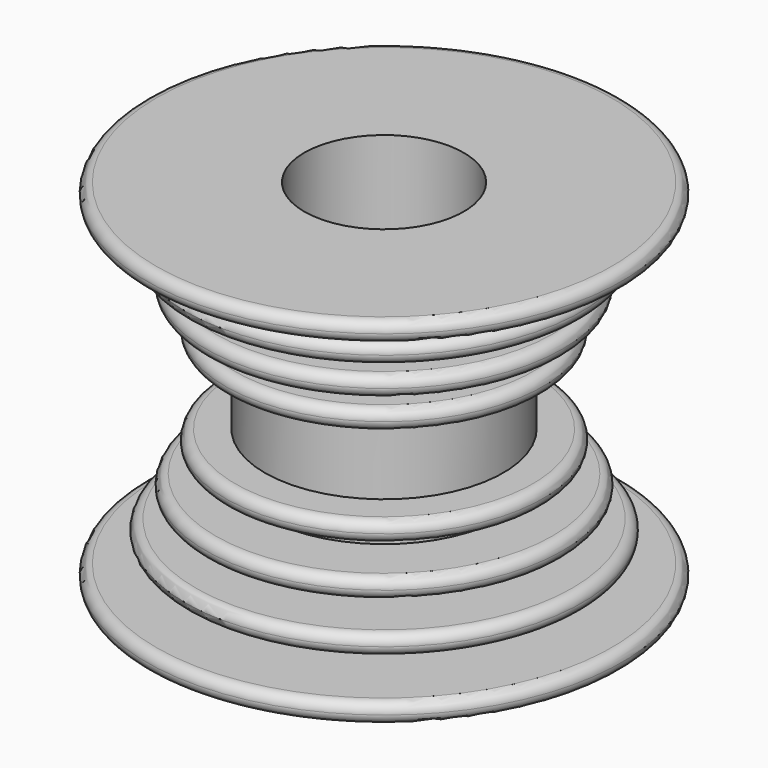
from build123d import *


with BuildPart() as f1:
    # F0 (on Front) → F1 (revolve)
    with BuildSketch(Plane.XZ):
        with BuildLine():
            Line((-36.6395, -28.575), (-12.827, -28.575))
            Line((-12.827, -28.575), (-12.827, 28.575))
            Line((-12.827, 28.575), (-36.6395, 28.575))
            ThreePointArc((-36.6395, 28.575), (-37.762032, 28.110032), (-38.227, 26.9875))
            ThreePointArc((-38.227, 26.9875), (-37.762032, 25.864968), (-36.6395, 25.4))
            Line((-36.6395, 25.4), (-19.177, 25.4))
            Line((-19.177, 25.4), (-19.177, 22.225))
            Line((-19.177, 22.225), (-30.2895, 22.225))
            ThreePointArc((-30.2895, 22.225), (-31.412032, 21.760032), (-31.877, 20.6375))
            ThreePointArc((-31.877, 20.6375), (-31.412032, 19.514968), (-30.2895, 19.05))
            Line((-30.2895, 19.05), (-19.177, 19.05))
            Line((-19.177, 19.05), (-19.177, 15.875))
            Line((-19.177, 15.875), (-27.1145, 15.875))
            ThreePointArc((-27.1145, 15.875), (-28.237032, 15.410032), (-28.702, 14.2875))
            ThreePointArc((-28.702, 14.2875), (-28.237032, 13.164968), (-27.1145, 12.7))
            Line((-27.1145, 12.7), (-19.177, 12.7))
            Line((-19.177, 12.7), (-19.177, 9.525))
            Line((-19.177, 9.525), (-23.9395, 9.525))
            ThreePointArc((-23.9395, 9.525), (-25.062032, 9.060032), (-25.527, 7.9375))
            ThreePointArc((-25.527, 7.9375), (-25.062032, 6.814968), (-23.9395, 6.35))
            Line((-23.9395, 6.35), (-19.177, 6.35))
            Line((-19.177, 6.35), (-19.177, 0))
            Line((-19.177, 0), (-19.177, -6.35))
            Line((-19.177, -6.35), (-23.9395, -6.35))
            ThreePointArc((-23.9395, -6.35), (-25.062032, -6.814968), (-25.527, -7.9375))
            ThreePointArc((-25.527, -7.9375), (-25.062032, -9.060032), (-23.9395, -9.525))
            Line((-23.9395, -9.525), (-19.177, -9.525))
            Line((-19.177, -9.525), (-19.177, -12.7))
            Line((-19.177, -12.7), (-27.1145, -12.7))
            ThreePointArc((-27.1145, -12.7), (-28.237032, -13.164968), (-28.702, -14.2875))
            ThreePointArc((-28.702, -14.2875), (-28.237032, -15.410032), (-27.1145, -15.875))
            Line((-27.1145, -15.875), (-19.177, -15.875))
            Line((-19.177, -15.875), (-19.177, -19.05))
            Line((-19.177, -19.05), (-30.2895, -19.05))
            ThreePointArc((-30.2895, -19.05), (-31.412032, -19.514968), (-31.877, -20.6375))
            ThreePointArc((-31.877, -20.6375), (-31.412032, -21.760032), (-30.2895, -22.225))
            Line((-30.2895, -22.225), (-19.177, -22.225))
            Line((-19.177, -22.225), (-19.177, -25.4))
            Line((-19.177, -25.4), (-36.6395, -25.4))
            ThreePointArc((-36.6395, -25.4), (-37.762032, -25.864968), (-38.227, -26.9875))
            ThreePointArc((-38.227, -26.9875), (-37.762032, -28.110032), (-36.6395, -28.575))
        make_face()
    revolve(axis=Axis((0, 0, -0.054658), (0, 0, -1)))


solid = f1.part
